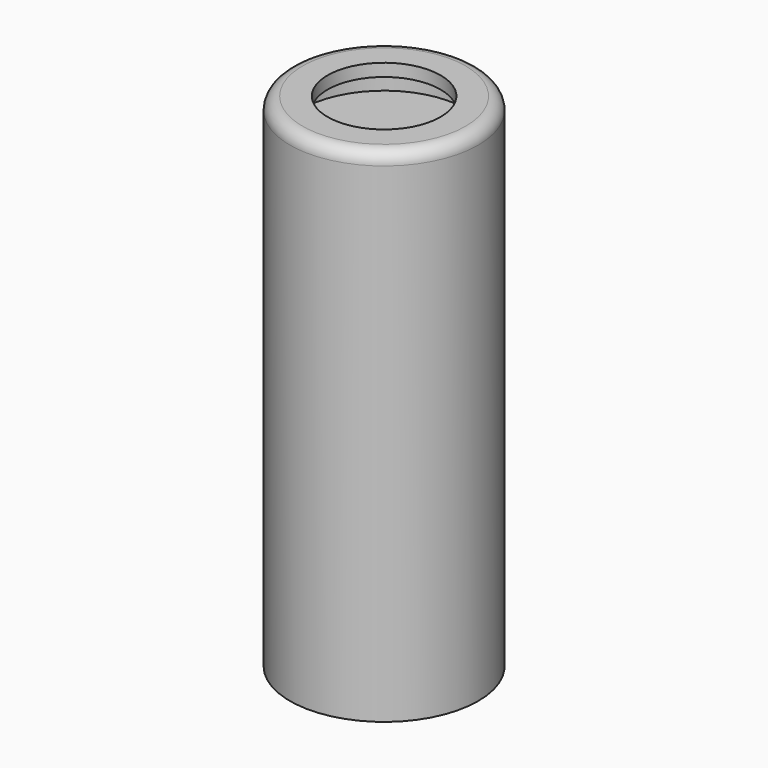
from build123d import *

# Parameters (mm, degrees)
SKETCH047_R     = 3.75
PAD024_DEPTH    = 20
SKETCH048_R     = 2.25
POCKET015_DEPTH = 0.5
SKETCH049_R     = 3.25
POCKET013_DEPTH = 1
FILLET006_R     = 0.5


with BuildPart() as part:
    # Sketch047 → Pad024 (new body)
    with BuildSketch(Plane.XY):
        Circle(SKETCH047_R)
    extrude(amount=PAD024_DEPTH)

    # Sketch048 (on Face3 of Pad024) → Pocket015 (cut)
    with BuildSketch(Plane.XY.offset(20)):
        Circle(SKETCH048_R)
    extrude(amount=-POCKET015_DEPTH, mode=Mode.SUBTRACT)

    # Sketch049 (on Face5 of Pocket015) → Pocket013 (cut)
    with BuildSketch(Plane.XY.offset(19.5)):
        Circle(SKETCH049_R)
    extrude(amount=-POCKET013_DEPTH, mode=Mode.SUBTRACT)

    # Fillet006
    fillet006_edges = [part.edges().sort_by_distance(p)[0] for p in [
        (-3.75, 0, 20),
    ]]
    fillet(fillet006_edges, radius=FILLET006_R)


solid = part.part
